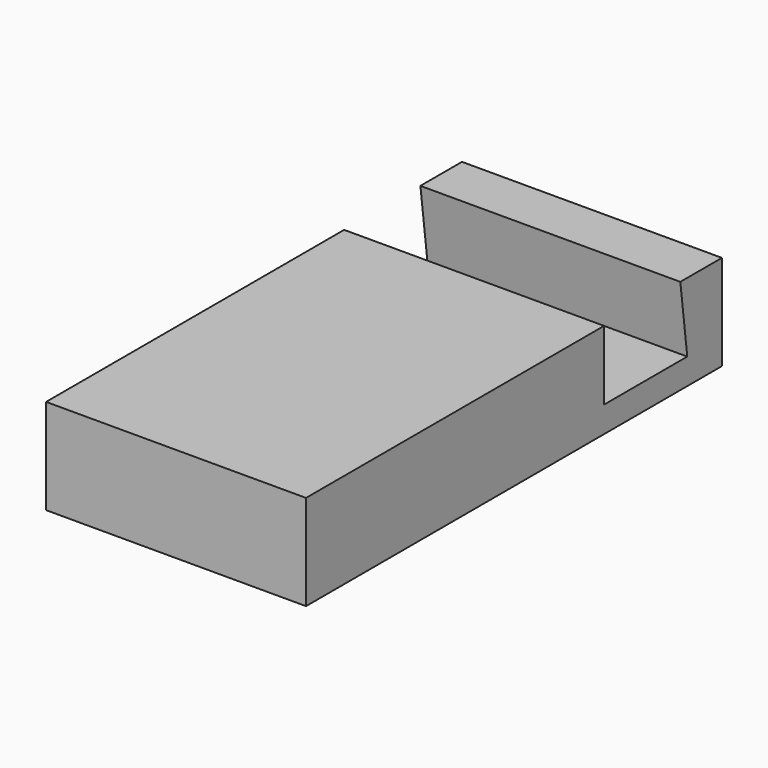
from build123d import *

# Parameters (mm, degrees)
PAD_DEPTH = 30


with BuildPart() as part:
    # Sketch → Pad (new body)
    with BuildSketch(Plane.YZ):
        Polygon((0, 0), (60, 0), (60, 11), (54, 11), (55, 3), (43, 3), (43, 11), (0, 11), align=None)
    extrude(amount=PAD_DEPTH)


solid = part.part
